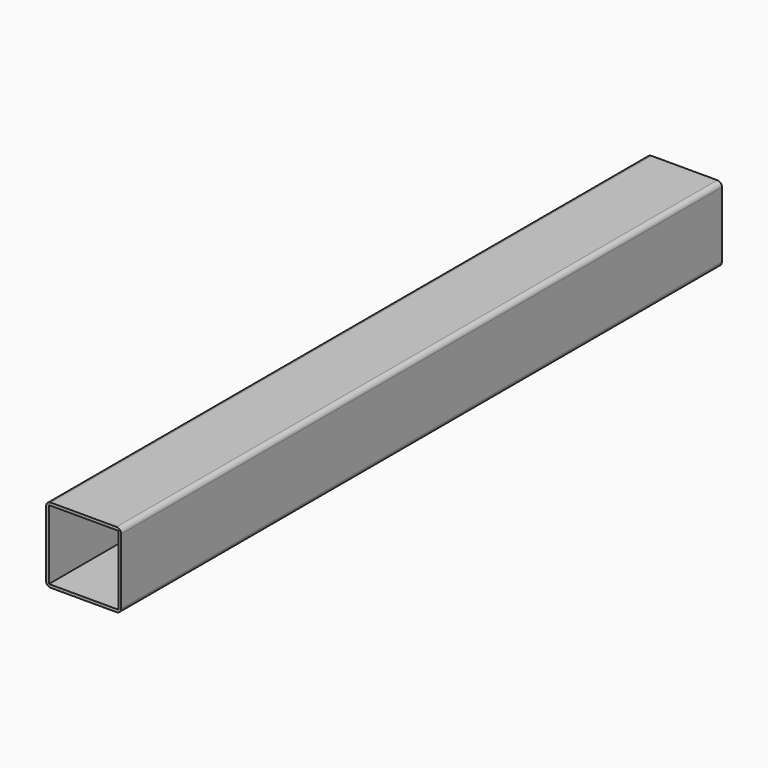
from build123d import *

# Parameters (mm, degrees)
F0_W     = 80
F0_H     = 80
F0_W_2   = 74
F0_H_2   = 74
F1_DEPTH = 800
F2_R     = 5


with BuildPart() as f1:
    # F0 (on Front) → F1 (new body)
    with BuildSketch(Plane.XZ):
        Rectangle(F0_W, F0_H)
        Rectangle(F0_W_2, F0_H_2, mode=Mode.SUBTRACT)
    extrude(amount=F1_DEPTH)

    # F2
    f2_edges = [f1.edges().sort_by_distance(p)[0] for p in [
        (40, -400, 40),
        (-40, -400, 40),
        (40, -400, -40),
        (-40, -400, -40),
    ]]
    fillet(f2_edges, radius=F2_R)


solid = f1.part
